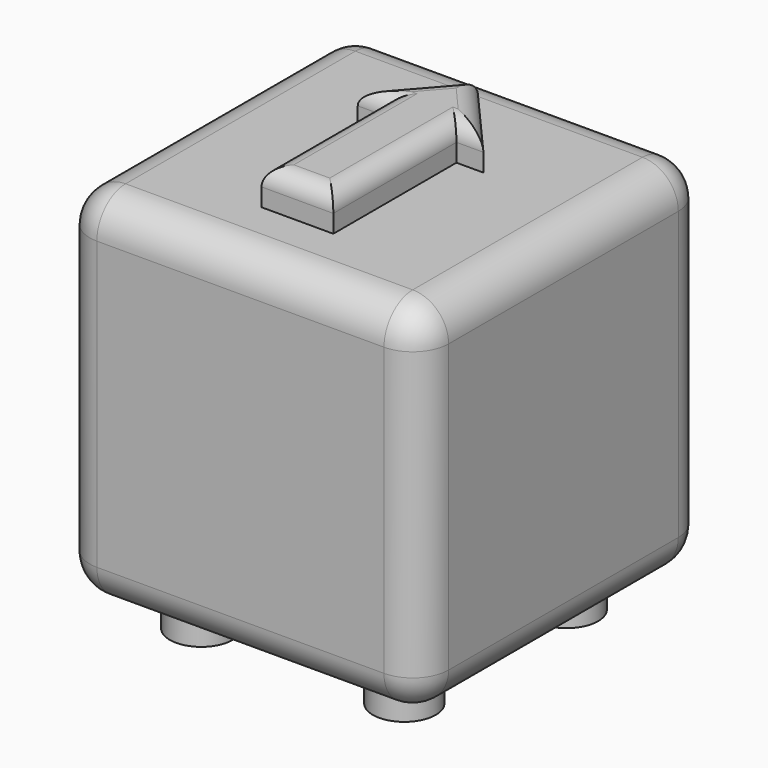
from build123d import *

# Parameters (mm, degrees)
F0_W     = 10
F0_H     = 10
F0_R     = 0.875
F1_DEPTH = 10
F2_DEPTH = 1
F3_R     = 1
F5_DEPTH = 1
F6_R     = 0.5


with BuildPart() as f1:
    # F0 (on Top) → F1 (new body)
    with BuildSketch(Plane.XY):
        Rectangle(F0_W, F0_H)
        with Locations((-2.828427, -2.828427)):
            Circle(F0_R, mode=Mode.SUBTRACT)
        with Locations((2.828427, -2.828427)):
            Circle(F0_R, mode=Mode.SUBTRACT)
        with Locations((-2.828427, 2.828427)):
            Circle(F0_R, mode=Mode.SUBTRACT)
        Circle(F0_R, mode=Mode.SUBTRACT)
        with Locations((2.828427, 2.828427)):
            Circle(F0_R, mode=Mode.SUBTRACT)
        with Locations((-2.828427, -2.828427)):
            Circle(F0_R)
        with Locations((-2.828427, 2.828427)):
            Circle(F0_R)
        with Locations((2.828427, 2.828427)):
            Circle(F0_R)
        with Locations((2.828427, -2.828427)):
            Circle(F0_R)
        Circle(F0_R)
    extrude(amount=F1_DEPTH)

    # F0 (on Top) → F2 (join)
    with BuildSketch(Plane.XY):
        with Locations((2.828427, 2.828427)):
            Circle(F0_R)
        with Locations((-2.828427, 2.828427)):
            Circle(F0_R)
        with Locations((-2.828427, -2.828427)):
            Circle(F0_R)
        with Locations((2.828427, -2.828427)):
            Circle(F0_R)
        Circle(F0_R)
    extrude(amount=-F2_DEPTH)

    # F3
    f3_edges = [f1.edges().sort_by_distance(p)[0] for p in [
        (5, 5, 5),
        (0, 5, 0),
        (5, 0, 0),
        (-5, 0, 0),
        (-5, 5, 5),
        (-5, -5, 5),
        (-5, 0, 10),
        (0, -5, 10),
        (5, 0, 10),
        (0, 5, 10),
        (5, -5, 5),
        (0, -5, 0),
    ]]
    fillet(f3_edges, radius=F3_R)

    # F4 (on face) → F5 (join)
    with BuildSketch(Plane.XY.offset(10)):
        Polygon((-1, 1.273247), (-1, 0), (-1, -3.015627), (1, -3.015627), (1, 1.273247), (1.75, 1.273247), (0, 3.273247), (-1.75, 1.273247), align=None)
    extrude(amount=F5_DEPTH)

    # F6
    f6_edges = [f1.edges().sort_by_distance(p)[0] for p in [
        (-0.875, 2.273247, 11),
        (-1.375, 1.273247, 11),
        (-1, -0.87119, 11),
        (0, -3.015627, 11),
        (1, -0.87119, 11),
        (1.375, 1.273247, 11),
        (0.875, 2.273247, 11),
    ]]
    fillet(f6_edges, radius=F6_R)


solid = f1.part
